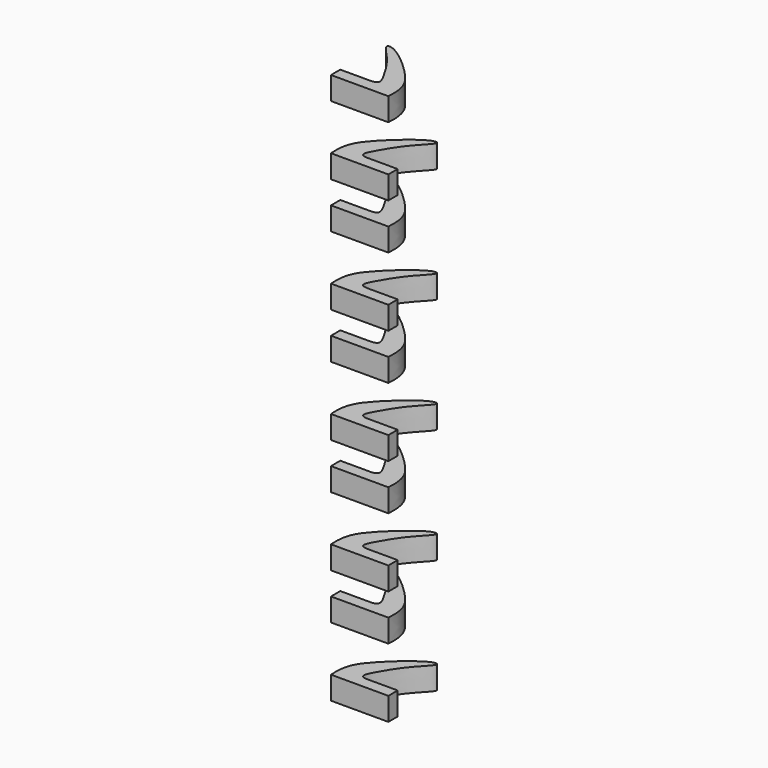
from build123d import *

# Parameters (mm, degrees)
PAD001_DEPTH        = 4
ARRAY001040_Z_COUNT = 5
ARRAY001040_Z_PITCH = 20


with BuildPart() as body006:
    # Sketch001 → Pad001 (new body)
    with BuildSketch(Plane.XY):
        with BuildLine():
            Line((5, -6), (-5, -6))
            add(Edge.make_bspline(
                [(-5, -6), (-5.220143, -3.196732), (-3.977498, -0.338646), (2.26058, 5.1787), (4.44764, 5.77517), (4.47249, 5.00473), (1.39073, 2.02238), (-1.04485, -2.17776), (-1.88985, -3.94232), (-0.224708, -3.967178)],
                knots=[0, 0, 0, 0, 0.142857, 0.285714, 0.428571, 0.571429, 0.714286, 0.857143, 1, 1, 1, 1], degree=3))
            Line((-0.224708, -3.967178), (5, -3.967178))
            Line((5, -3.967178), (5, -6))
        make_face()
    extrude(amount=PAD001_DEPTH)


with BuildPart() as body006_1:
    # Body006 placement: moved
    add(body006.part.moved(Location((0, 0, -2))))


with BuildPart() as part_mirroring002:
    # Part__Mirroring002: instance of Body006
    add(body006_1.part.mirror(Plane(origin=(0, 0, 0), x_dir=(0, -1, 0), z_dir=(1, 0, 0))))


with BuildPart() as part_mirroring002_1:
    # Part__Mirroring002 placement: moved
    add(part_mirroring002.part.moved(Location((0, 0, 12))))


with BuildPart() as obj1:
    # Fusion046 base: copy of Body006
    add(body006_1.part)

    # Fusion046: union Part__Mirroring002
    add(part_mirroring002_1.part)

    # Array001040 Z: obj1 ×5


with BuildPart() as obj1_1:
    add(obj1.part)
    with Locations(*[(0, 0, i * ARRAY001040_Z_PITCH) for i in range(1, ARRAY001040_Z_COUNT)]):
        add(obj1.part)


solid = obj1_1.part
